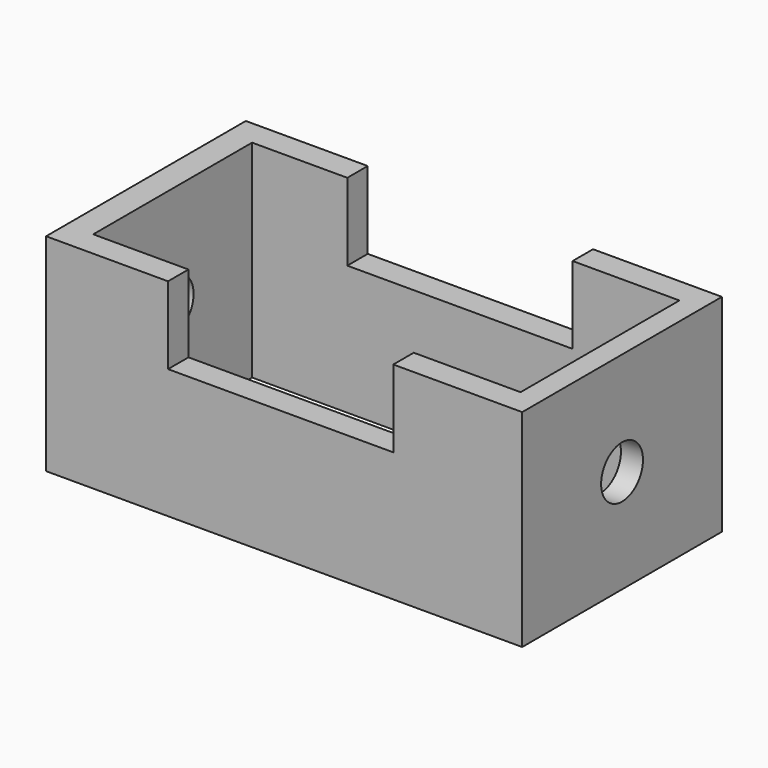
from build123d import *

# Parameters (mm, degrees)
F0_W     = 116.948664
F0_H     = 61.326738
F0_W_2   = 104.968556
F0_H_2   = 48.77615
F1_DEPTH = 50.8
F2_W     = 55.336682
F2_H     = 18.995669
F3_DEPTH = 76.2
F4_R     = 6.426074
F5_DEPTH = 177.8


with BuildPart() as f1:
    # F0 (on Top) → F1 (new body)
    with BuildSketch(Plane.XY):
        with Locations((3.137648, -3.137646)):
            Rectangle(F0_W, F0_H)
        with Locations((3.708128, -3.137648)):
            Rectangle(F0_W_2, F0_H_2, mode=Mode.SUBTRACT)
    extrude(amount=F1_DEPTH)

    # F2 (on face) → F3 (cut)
    with BuildSketch(Plane.XZ.offset(33.801015)):
        with Locations((2.281924, 41.302166)):
            Rectangle(F2_W, F2_H)
    extrude(amount=-F3_DEPTH, mode=Mode.SUBTRACT)

    # F4 (on face) → F5 (cut)
    with BuildSketch(Plane.YZ.offset(61.61198)):
        with Locations((-3.137646, 25.4)):
            Circle(F4_R)
    extrude(amount=-F5_DEPTH, mode=Mode.SUBTRACT)


solid = f1.part
